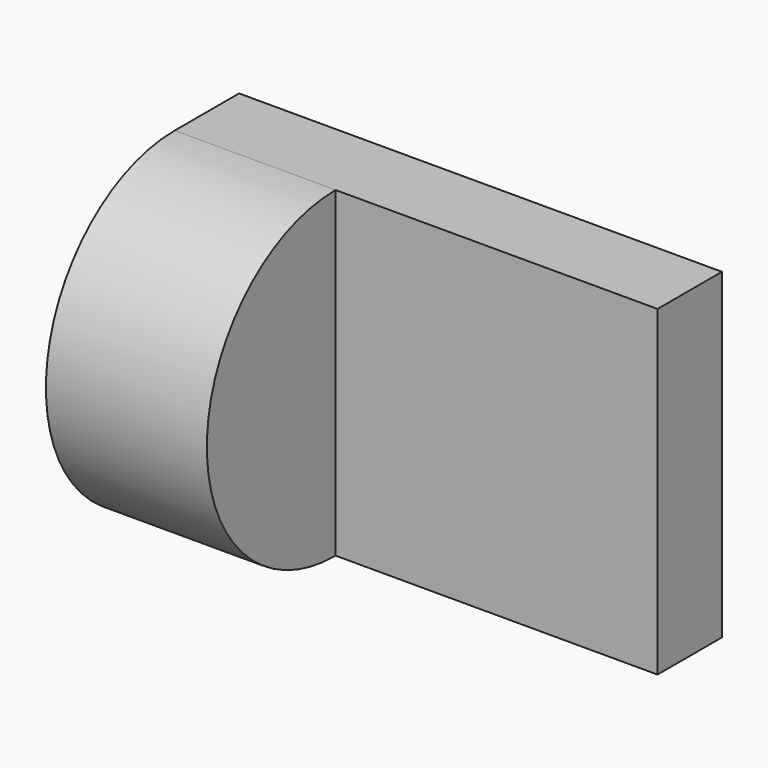
from build123d import *

# Parameters (mm, degrees)
F0_W     = 38.1
F0_H     = 25.4
F1_DEPTH = 6.35
F3_DEPTH = 12.7


with BuildPart() as f1:
    # F0 (on Front) → F1 (new body)
    with BuildSketch(Plane.XZ):
        with Locations((19.05, 12.7)):
            Rectangle(F0_W, F0_H)
    extrude(amount=F1_DEPTH)

    # F2 (on face) → F3 (join)
    with BuildSketch(Plane(origin=(0, 0, 0), x_dir=(0, -1, 0), z_dir=(-1, 0, 0))):
        with BuildLine():
            Line((6.35, 25.4), (6.35, 0))
            ThreePointArc((6.35, 0), (19.05, 12.7), (6.35, 25.4))
        make_face()
    extrude(amount=-F3_DEPTH)


solid = f1.part
